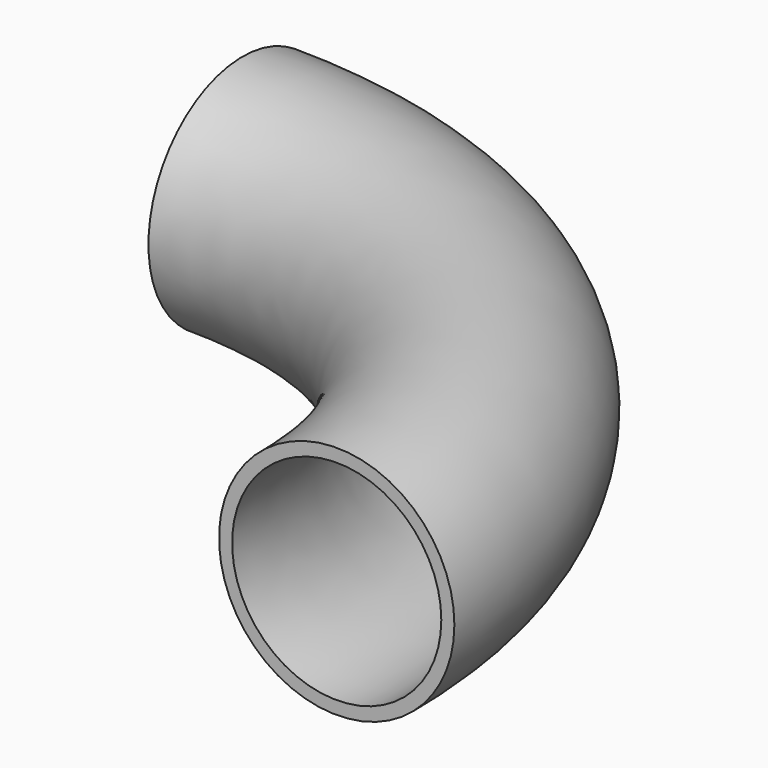
from build123d import *

# Parameters (mm, degrees)
F1_R   = 57.15
F1_R_2 = 50.8


with BuildPart() as f2:
    # F2: sweep along a path in F0
    with BuildLine(Plane.XY) as f2_path:
        ThreePointArc((228.6, 0), (161.6446101792, 161.6446101792), (0, 228.6))
    # F1 (on Right) → F2 (sweep)
    with BuildSketch(Plane.YZ):
        with Locations((228.6, 0)):
            Circle(F1_R)
        with Locations((228.6, 0)):
            Circle(F1_R_2, mode=Mode.SUBTRACT)
    sweep(path=f2_path.line)


solid = f2.part
